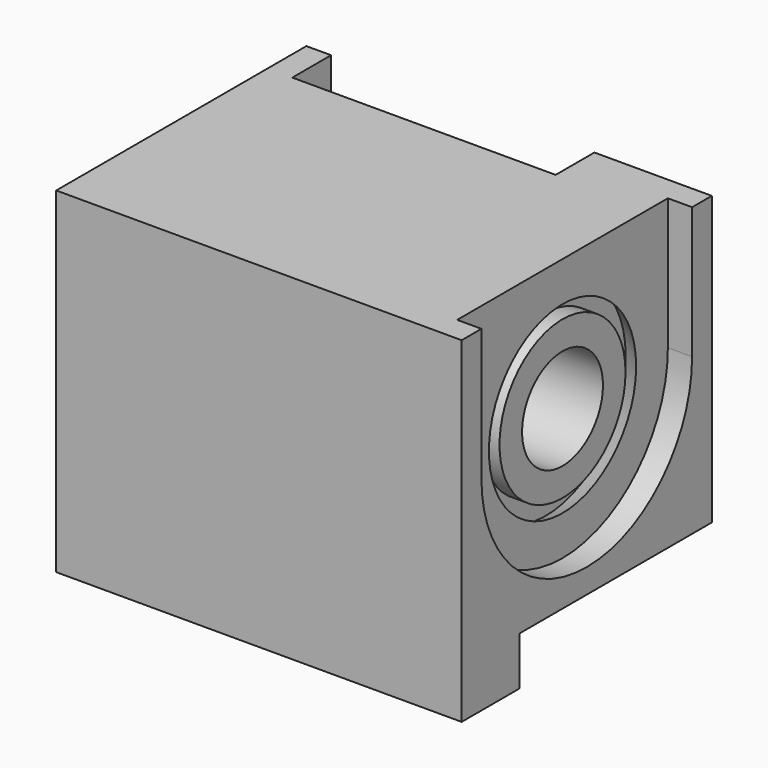
from build123d import *

# Parameters (mm, degrees)
F0_W      = 106.2482
F0_H      = 81.9404
F1_DEPTH  = 88.0618
F2_W      = 62.9158
F2_H      = 12.7
F3_DEPTH  = 93.5482
F4_W      = 69.0118
F4_H      = 34.5059
F5_DEPTH  = 6.35
F6_W      = 69.0118
F6_H      = 34.5059
F7_DEPTH  = 12.7
F8_R      = 13.2461
F9_DEPTH  = 69.0118
F10_R     = 13.2461
F11_DEPTH = 53.975
F12_R     = 19.05
F13_DEPTH = 12.7
F14_R     = 3.175
F15_DEPTH = 12.7
F16_R     = 24.1173
F17_DEPTH = 4.3688
F17_TAPER = -25
F18_R     = 20.6375
F19_DEPTH = 4.3688
F20_R     = 13.2461
F21_DEPTH = 25.4
F23_R     = 17.399
F24_DEPTH = 25.4
F22_R     = 24.1173
F22_R_2   = 13.2461
F25_DEPTH = 4.3688
F25_TAPER = -25
F26_R     = 20.6375
F27_DEPTH = 4.3688
F28_R     = 13.2461
F29_DEPTH = 4.3688


with BuildPart() as f1:
    # F0 (on Top) → F1 (new body)
    with BuildSketch(Plane.XY):
        with Locations((53.1241, 40.9702)):
            Rectangle(F0_W, F0_H)
    extrude(amount=F1_DEPTH)

    # F2 (on face) → F3 (cut)
    with BuildSketch(Plane.YZ.offset(106.2482)):
        with Locations((50.4825, 6.35)):
            Rectangle(F2_W, F2_H)
    extrude(amount=-F3_DEPTH, mode=Mode.SUBTRACT)

    # F4 (on face) → F5 (cut)
    with BuildSketch(Plane.YZ.offset(106.2482)):
        with Locations((40.9829, 70.80885)):
            Rectangle(F4_W, F4_H)
        with BuildLine():
            Line((75.4888, 53.5559), (6.477, 53.5559))
            ThreePointArc((6.477, 53.5559), (40.9829, 19.05), (75.4888, 53.5559))
        make_face()
    extrude(amount=-F5_DEPTH, mode=Mode.SUBTRACT)

    # F6 (on face) → F7 (cut)
    with BuildSketch(Plane(origin=(0, 81.9404, 0), x_dir=(-1, 0, 0), z_dir=(0, 1, 0))):
        with Locations((-40.9829, 70.80885)):
            Rectangle(F6_W, F6_H)
        with BuildLine():
            Line((-6.477, 53.5559), (-75.4888, 53.5559))
            ThreePointArc((-75.4888, 53.5559), (-40.9829, 19.05), (-6.477, 53.5559))
        make_face()
    extrude(amount=-F7_DEPTH, mode=Mode.SUBTRACT)

    # F8 (on face) → F9 (cut)
    with BuildSketch(Plane.YZ.offset(99.8982)):
        with Locations((40.9829, 53.5559)):
            Circle(F8_R)
    extrude(amount=-F9_DEPTH, mode=Mode.SUBTRACT)

    # F10 (on face) → F11 (cut)
    with BuildSketch(Plane(origin=(0, 69.2404, 0), x_dir=(-1, 0, 0), z_dir=(0, 1, 0))):
        with Locations((-40.9829, 53.5559)):
            Circle(F10_R)
    extrude(amount=-F11_DEPTH, mode=Mode.SUBTRACT)

    # F12 (on face) → F13 (cut)
    with BuildSketch(Plane(origin=(0, 0, 0), x_dir=(0, -1, 0), z_dir=(-1, 0, 0))):
        with Locations((-40.9702, 53.5432)):
            Circle(F12_R)
    extrude(amount=-F13_DEPTH, mode=Mode.SUBTRACT)

    # F14 (on face) → F15 (cut)
    with BuildSketch(Plane(origin=(0, 0, 12.7), x_dir=(1, 0, 0), z_dir=(0, 0, -1))):
        with Locations((93.5482, -69.2404)):
            Circle(F14_R)
    extrude(amount=-F15_DEPTH, mode=Mode.SUBTRACT)

    # F16 (on face) → F17 (cut)
    with BuildSketch(Plane.YZ.offset(99.8982)):
        with Locations((40.9829, 53.5559)):
            Circle(F16_R)
    extrude(amount=-F17_DEPTH, taper=F17_TAPER, mode=Mode.SUBTRACT)

    # F18 (on face) → F19 (join)
    with BuildSketch(Plane.YZ.offset(95.5294)):
        with Locations((40.9829, 53.5559)):
            Circle(F18_R)
    extrude(amount=F19_DEPTH)

    # F20 (on face) → F21 (cut)
    with BuildSketch(Plane.YZ.offset(99.8982)):
        with Locations((40.9829, 53.5559)):
            Circle(F20_R)
    extrude(amount=-F21_DEPTH, mode=Mode.SUBTRACT)

    # F23 (on face) → F24 (cut)
    with BuildSketch(Plane(origin=(12.7, 0, 0), x_dir=(0, -1, 0), z_dir=(-1, 0, 0))):
        with Locations((-40.9702, 53.5432)):
            Circle(F23_R)
    extrude(amount=-F24_DEPTH, mode=Mode.SUBTRACT)

    # F22 (on face) → F25 (cut)
    with BuildSketch(Plane(origin=(0, 69.2404, 0), x_dir=(-1, 0, 0), z_dir=(0, 1, 0))):
        with Locations((-40.9829, 53.5559)):
            Circle(F22_R)
        with Locations((-40.9829, 53.5559)):
            Circle(F22_R_2, mode=Mode.SUBTRACT)
        with Locations((-40.9829, 53.5559)):
            Circle(F22_R)
    extrude(amount=-F25_DEPTH, taper=F25_TAPER, mode=Mode.SUBTRACT)

    # F26 (on face) → F27 (join)
    with BuildSketch(Plane(origin=(0, 64.8716, 0), x_dir=(-1, 0, 0), z_dir=(0, 1, 0))):
        with Locations((-40.9829, 53.5559)):
            Circle(F26_R)
    extrude(amount=F27_DEPTH)

    # F28 (on face) → F29 (cut, through all)
    with BuildSketch(Plane(origin=(0, 69.2404, 0), x_dir=(-1, 0, 0), z_dir=(0, 1, 0))):
        with Locations((-40.9829, 53.5559)):
            Circle(F28_R)
    extrude(amount=-F29_DEPTH, mode=Mode.SUBTRACT)


solid = f1.part
